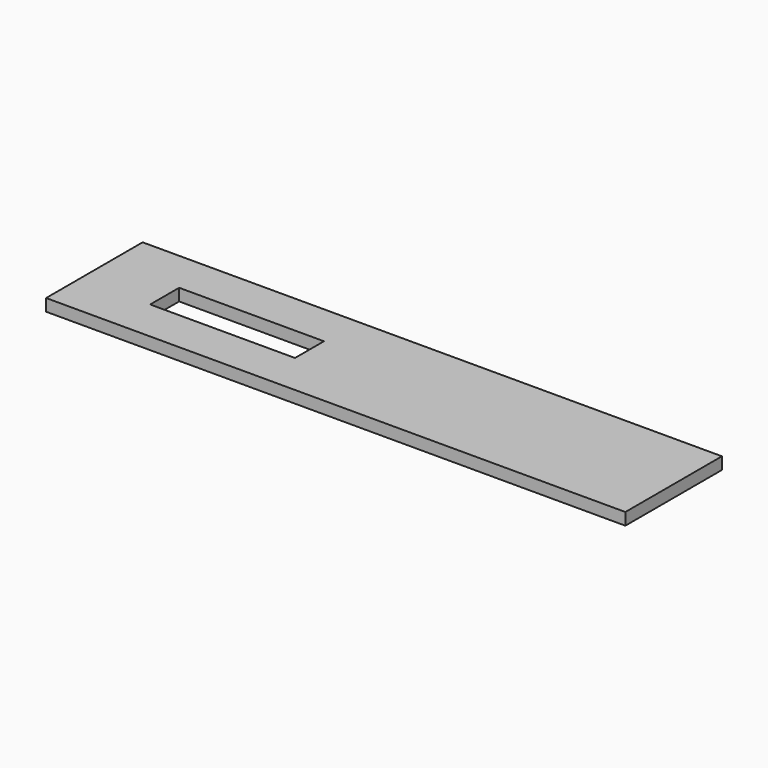
from build123d import *

# Parameters (mm, degrees)
F0_W     = 152.4
F0_H     = 14.740049
F0_H_2   = 8.316415
F0_H_3   = 8.693536
F1_DEPTH = 3.175
F2_DEPTH = 55.118
F3_W     = 38.1
F3_H     = 9.525
F4_DEPTH = 25.4


with BuildPart() as f1:
    # F0 (on Top) → F1 (new body)
    with BuildSketch(Plane.XY):
        with Locations((77.322651, 15.686439)):
            Rectangle(F0_W, F0_H)
        with Locations((77.322651, 4.158207)):
            Rectangle(F0_W, F0_H_2)
        with Locations((77.322651, -4.346768)):
            Rectangle(F0_W, F0_H_3)
    extrude(amount=F1_DEPTH)

    # F0 (on Top) → F2 (cut)
    with BuildSketch(Plane.XY):
        with Locations((77.322651, 4.158207)):
            Rectangle(F0_W, F0_H_2)
    extrude(amount=-F2_DEPTH, mode=Mode.SUBTRACT)

    # F3 (on face) → F4 (cut)
    with BuildSketch(Plane.XY.offset(3.175)):
        with Locations((38.663851, 7.181464)):
            Rectangle(F3_W, F3_H)
    extrude(amount=-F4_DEPTH, mode=Mode.SUBTRACT)


solid = f1.part
